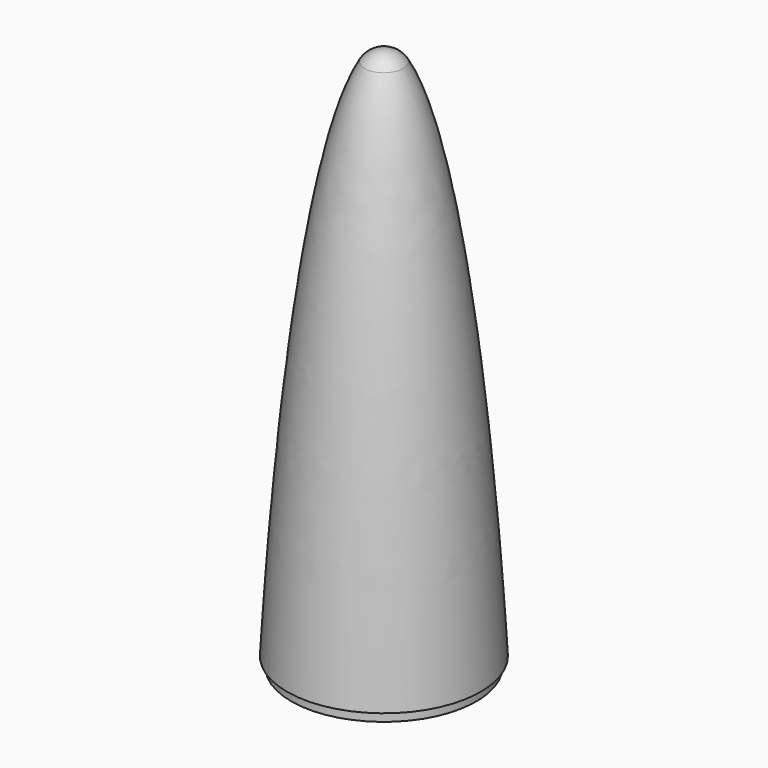
from build123d import *


with BuildPart() as f1:
    # F0 (on Front) → F1 (revolve)
    with BuildSketch(Plane.XZ):
        with BuildLine():
            Line((-29.6536915112, 129), (-28.35564, 129))
            Line((-28.35564, 129), (-28.35564, 126))
            Line((-28.35564, 126), (0, 126))
            Line((0, 126), (0, 129))
            Line((0, 129), (0, 292.4475073814))
            ThreePointArc((0, 292.4475073814), (-3.3756872279, 291.644043472), (-5.8999324987, 289.263076373))
            add(Edge.make_bspline(
                [(-5.8999324987, 289.263076373), (-22.3275967978, 262.6682816377), (-29.6536915112, 129)],
                knots=[0.1797522628, 0.1797522628, 0.1797522628, 1.1165607764, 1.1165607764, 1.1165607764], degree=2, weights=[1, 0.892289843, 1]))
        make_face()
    revolve(axis=Axis((0, 0, 0), (0, 0, -1)))


with BuildPart() as f1_1:
    # F2: moved
    add(f1.part.moved(Location((0, 0, -220))))


solid = f1_1.part
